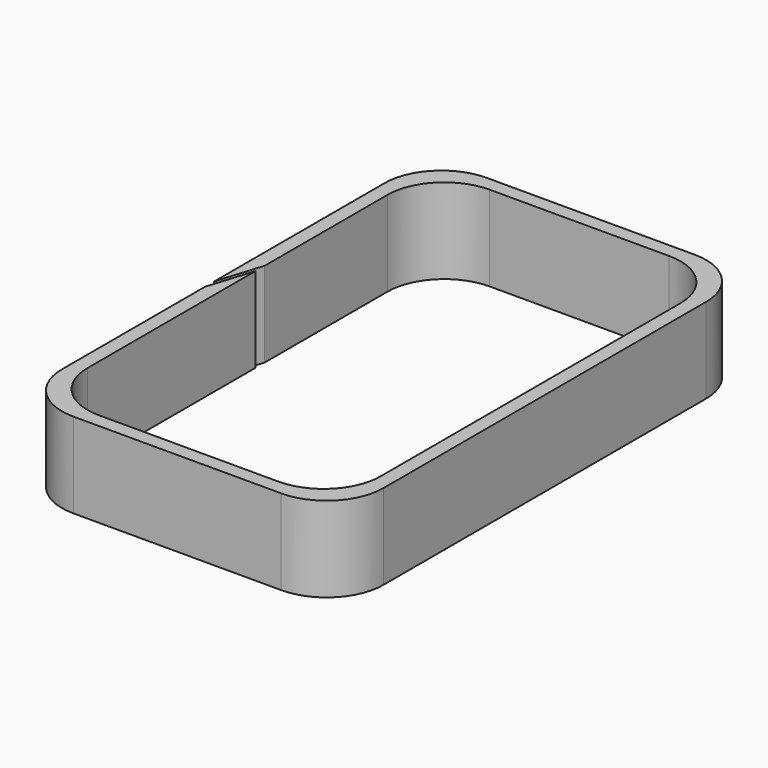
from build123d import *

# Parameters (mm, degrees)
F0_W     = 56.6
F0_H     = 91
F1_DEPTH = 15
F2_W     = 51.6
F2_H     = 86
F3_DEPTH = 25
F4_R     = 10
F6_DEPTH = 25


with BuildPart() as f1:
    # F0 (on Top) → F1 (new body)
    with BuildSketch(Plane.XY):
        Rectangle(F0_W, F0_H)
    extrude(amount=F1_DEPTH)

    # F2 (on face) → F3 (cut)
    with BuildSketch(Plane.XY.offset(15)):
        Rectangle(F2_W, F2_H)
    extrude(amount=-F3_DEPTH, mode=Mode.SUBTRACT)

    # F4
    f4_edges = [f1.edges().sort_by_distance(p)[0] for p in [
        (28.3, -45.5, 7.5),
        (28.3, 45.5, 7.5),
        (-28.3, -45.5, 7.5),
        (-28.3, 45.5, 7.5),
        (25.8, 43, 7.5),
        (-25.8, 43, 7.5),
        (-25.8, -43, 7.5),
        (25.8, -43, 7.5),
    ]]
    fillet(f4_edges, radius=F4_R)

    # F5 (on face) → F6 (cut)
    with BuildSketch(Plane.XY.offset(15)):
        Polygon((-28.3, -2), (-28.3, -4), (-25.8, 4), (-25.8, 6), align=None)
    extrude(amount=-F6_DEPTH, mode=Mode.SUBTRACT)


solid = f1.part
